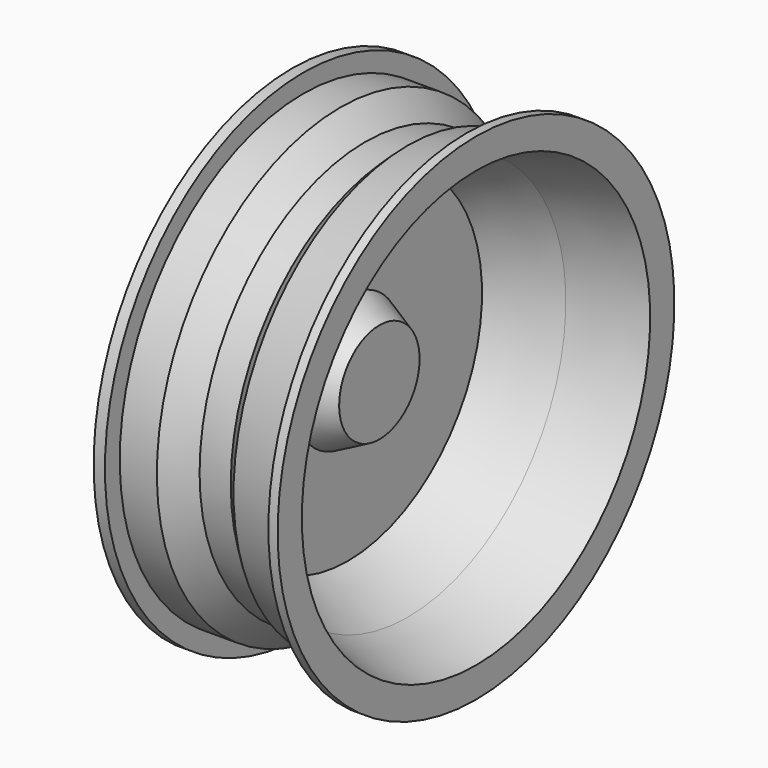
from build123d import *


with BuildPart() as f1:
    # F0 (on Front) → F1 (revolve)
    with BuildSketch(Plane.XZ):
        Polygon((-63.958033, 68.809019), (-76.658033, 68.809019), (-76.658033, 56.109019), (-75.809829, 30.75109), (-41.528765, 30.75109), (-21.939546, 16.899448), (-21.939546, 0), (-35.836518, 0), (-35.836518, -270.642668), (42.956188, -270.642668), (42.956188, -201.812252), (0, -180.076331), (0, -41.27745), (81.737712, 0), (175.249689, 27.431121), (175.249689, 68.809019), (162.549689, 68.809019), (162.549689, 43.409019), (81.737712, 27.431121), (66.268444, 12.821252), (23.584701, 12.821252), (-10.409839, 43.409019), (-61.209839, 43.409019), (-61.209839, 68.809019), align=None)
    revolve(axis=Axis((3.559835, 0, -270.642668), (-1, 0, 0)))


solid = f1.part
